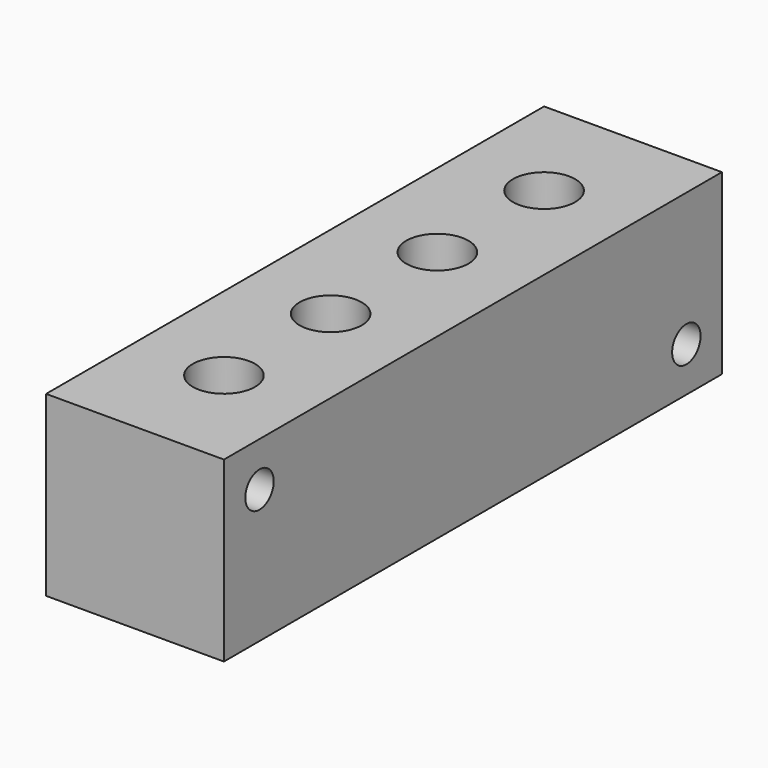
from build123d import *

# Parameters (mm, degrees)
F0_W     = 40
F0_H     = 40
F1_DEPTH = 140
F2_R     = 5.7
F3_DEPTH = 40
F4_R     = 4
F5_DEPTH = 40
F6_R     = 7
F6_R_2   = 5.7
F7_DEPTH = 12.5
F8_R     = 7
F8_R_2   = 5.7
F9_DEPTH = 12.5


with BuildPart() as f1:
    # F0 (on Front) → F1 (new body)
    with BuildSketch(Plane.XZ):
        Rectangle(F0_W, F0_H)
    extrude(amount=F1_DEPTH)

    # F2 (on face) → F3 (cut)
    with BuildSketch(Plane.XY.offset(20)):
        with Locations((0, -55)):
            Circle(F2_R)
        with Locations((0, -85)):
            Circle(F2_R)
        with Locations((0, -115)):
            Circle(F2_R)
        with Locations((0, -25)):
            Circle(F2_R)
    extrude(amount=-F3_DEPTH, mode=Mode.SUBTRACT)

    # F4 (on face) → F5 (cut)
    with BuildSketch(Plane.YZ.offset(20)):
        with Locations((-130, 10)):
            Circle(F4_R)
        with Locations((-10, -10)):
            Circle(F4_R)
    extrude(amount=-F5_DEPTH, mode=Mode.SUBTRACT)

    # F6 (on face) → F7 (cut)
    with BuildSketch(Plane(origin=(0, 0, -20), x_dir=(1, 0, 0), z_dir=(0, 0, -1))):
        with Locations((0, 115)):
            Circle(F6_R)
        with Locations((0, 115)):
            Circle(F6_R_2, mode=Mode.SUBTRACT)
        with Locations((0, 85)):
            Circle(F6_R)
        with Locations((0, 85)):
            Circle(F6_R_2, mode=Mode.SUBTRACT)
        with Locations((0, 55)):
            Circle(F6_R)
        with Locations((0, 55)):
            Circle(F6_R_2, mode=Mode.SUBTRACT)
        with Locations((0, 25)):
            Circle(F6_R)
        with Locations((0, 25)):
            Circle(F6_R_2, mode=Mode.SUBTRACT)
    extrude(amount=-F7_DEPTH, mode=Mode.SUBTRACT)

    # F8 (on face) → F9 (cut)
    with BuildSketch(Plane.XY.offset(20)):
        with Locations((0, -25)):
            Circle(F8_R)
        with Locations((0, -25)):
            Circle(F8_R_2, mode=Mode.SUBTRACT)
        with Locations((0, -55)):
            Circle(F8_R)
        with Locations((0, -55)):
            Circle(F8_R_2, mode=Mode.SUBTRACT)
        with Locations((0, -85)):
            Circle(F8_R)
        with Locations((0, -85)):
            Circle(F8_R_2, mode=Mode.SUBTRACT)
        with Locations((0, -115)):
            Circle(F8_R)
        with Locations((0, -115)):
            Circle(F8_R_2, mode=Mode.SUBTRACT)
    extrude(amount=-F9_DEPTH, mode=Mode.SUBTRACT)


solid = f1.part
